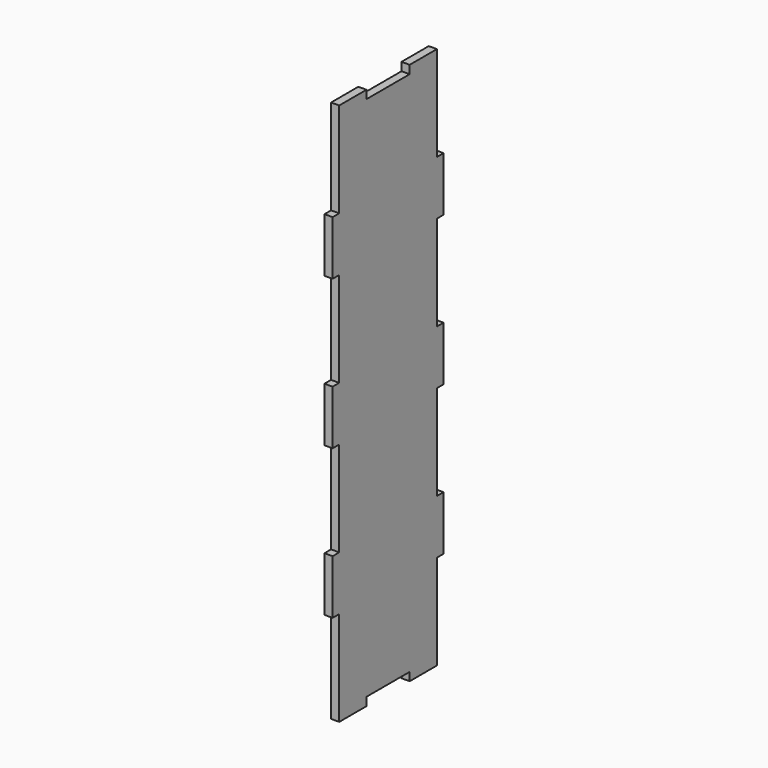
from build123d import *

# Parameters (mm, degrees)
F0_W     = 3.05
F0_H     = 20
F1_DEPTH = 3


with BuildPart() as f1:
    # F0 (on Right) → F1 (new body)
    with BuildSketch(Plane.YZ):
        with Locations((-24.025, 55)):
            Rectangle(F0_W, F0_H)
        with Locations((-24.025, 0)):
            Rectangle(F0_W, F0_H)
        with Locations((-24.025, -55)):
            Rectangle(F0_W, F0_H)
        with Locations((24.025, 55)):
            Rectangle(F0_W, F0_H)
        with Locations((24.025, 0)):
            Rectangle(F0_W, F0_H)
        with Locations((24.025, -55)):
            Rectangle(F0_W, F0_H)
        Polygon((9.95, -100), (22.5, -100), (22.5, -65), (22.5, -45), (22.5, -10), (22.5, 10), (22.5, 45), (22.5, 65), (22.5, 100), (9.95, 100), (9.95, 96.95), (-9.95, 96.95), (-9.95, 100), (-22.5, 100), (-22.5, 65), (-22.5, 45), (-22.5, 10), (-22.5, -10), (-22.5, -45), (-22.5, -65), (-22.5, -100), (-9.95, -100), (-9.95, -96.95), (9.95, -96.95), align=None)
    extrude(amount=F1_DEPTH)


solid = f1.part
